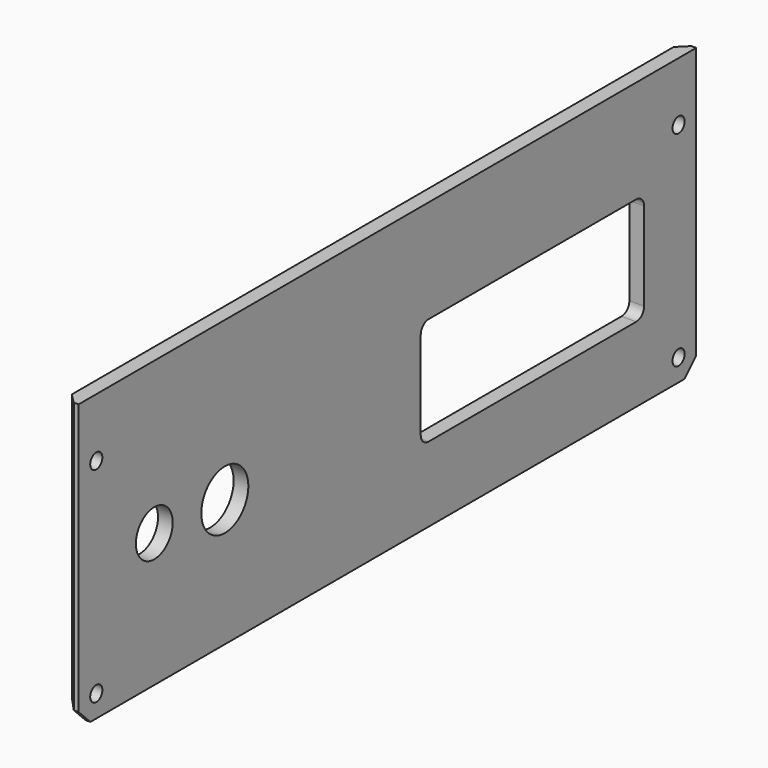
from build123d import *

# Parameters (mm, degrees)
SKETCH010_R     = 1.55
PAD005_DEPTH    = 3
SKETCH011_R     = 6
SKETCH011_R_2   = 4.7
SKETCH011_W     = 57
SKETCH011_H     = 22
POCKET005_DEPTH = 5
FILLET001_R     = 2
CHAMFER003_SIZE = 2


with BuildPart() as part:
    # Sketch010 (on ShapeBinder) → Pad005 (new body)
    with BuildSketch(Plane(origin=(0, 0, 0), x_dir=(0, 1, 0), z_dir=(-1, 0, 0))):
        Polygon((-6.3, -46), (151.3, -46), (151.3, 9.3), (148.3, 12.3), (-3.3, 12.3), (-6.3, 9.3), align=None)
        with Locations((-1.8, 7.8)):
            Circle(SKETCH010_R, mode=Mode.SUBTRACT)
        with Locations((-1.8, -34)):
            Circle(SKETCH010_R, mode=Mode.SUBTRACT)
        with Locations((146.8, 7.8)):
            Circle(SKETCH010_R, mode=Mode.SUBTRACT)
        with Locations((146.8, -34)):
            Circle(SKETCH010_R, mode=Mode.SUBTRACT)
    extrude(amount=PAD005_DEPTH)

    # Sketch011 (on ShapeBinder) → Pocket005 (cut)
    with BuildSketch(Plane(origin=(0, 0, 0), x_dir=(0, -1, 0), z_dir=(-1, 0, 0))):
        with Locations((-31, 13.7)):
            Circle(SKETCH011_R)
        with Locations((-13, 15)):
            Circle(SKETCH011_R_2)
        with Locations((-109.5, 14)):
            Rectangle(SKETCH011_W, SKETCH011_H)
    extrude(amount=POCKET005_DEPTH, mode=Mode.SUBTRACT)

    # Fillet001
    fillet001_edges = [part.edges().sort_by_distance(p)[0] for p in [
        (-1.5, 138, 3),
        (-1.5, 138, 25),
        (-1.5, 81, 25),
        (-1.5, 81, 3),
    ]]
    fillet(fillet001_edges, radius=FILLET001_R)

    # Chamfer003
    chamfer003_edges = [part.edges().sort_by_distance(p)[0] for p in [
        (-3, 72.5, -12.3),
        (-3, 151.3, 18.35),
        (-3, -6.3, 18.35),
        (-3, 149.8, -10.8),
        (-3, -4.8, -10.8),
    ]]
    chamfer(chamfer003_edges, length=CHAMFER003_SIZE)


solid = part.part
